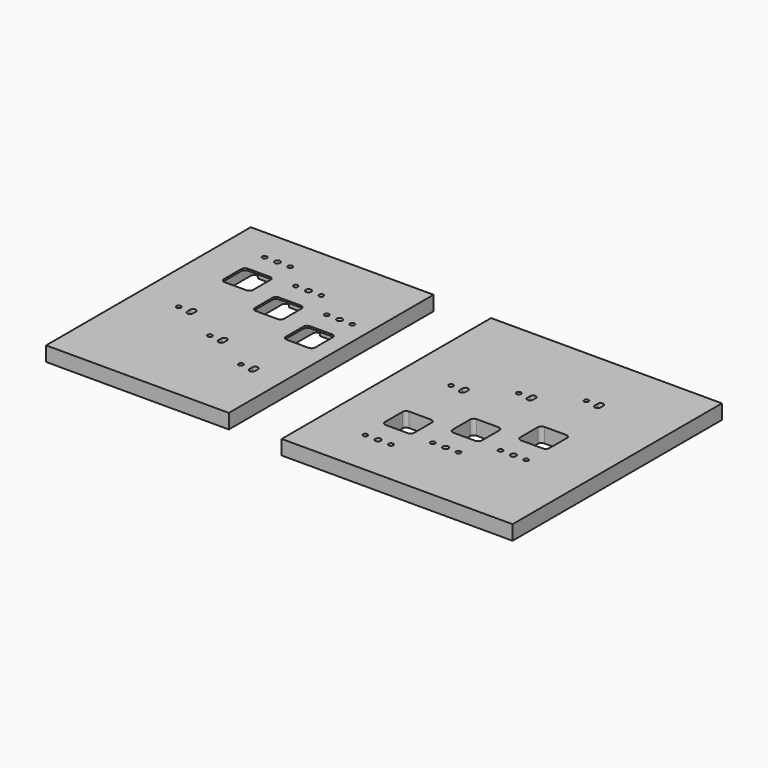
from build123d import *

# Parameters (mm, degrees)
F0_W      = 100
F0_H      = 140
F1_DEPTH  = 8
F2_R      = 1.25
F2_R_2    = 1.525
F3_DEPTH  = 8
F6_DEPTH  = 5
F8_DEPTH  = 7
F10_DEPTH = 8
F11_W     = 126.306630671
F11_H     = 143.1980729103
F11_R     = 1.25
F11_R_2   = 1.525
F12_DEPTH = 8


with BuildPart() as f1:
    # F0 (on Top) → F1 (new body)
    with BuildSketch(Plane.XY):
        Rectangle(F0_W, F0_H)
    extrude(amount=F1_DEPTH)

    # F2 (on face) → F3 (cut, through all)
    with BuildSketch(Plane(origin=(0, 0, 0), x_dir=(1, 0, 0), z_dir=(0, 0, -1))):
        with Locations((-28, -52)):
            Circle(F2_R)
        with Locations((-14, -52)):
            Circle(F2_R)
        with Locations((-28, 6.72)):
            Circle(F2_R)
        with Locations((-1, -39.5)):
            Circle(F2_R)
        with Locations((13, -39.5)):
            Circle(F2_R)
        with Locations((-1, 19.22)):
            Circle(F2_R)
        with Locations((26, 31.72)):
            Circle(F2_R)
        with Locations((26, -27)):
            Circle(F2_R)
        with Locations((40, -27)):
            Circle(F2_R)
        with BuildLine():
            ThreePointArc((-22.53, 5.72), (-21, 4.19), (-19.47, 5.72))
            Line((-19.47, 5.72), (-19.47, 7.72))
            ThreePointArc((-19.47, 7.72), (-21, 9.25), (-22.53, 7.72))
            Line((-22.53, 7.72), (-22.53, 5.72))
        make_face()
        with BuildLine():
            ThreePointArc((4.47, 18.22), (6, 16.69), (7.53, 18.22))
            Line((7.53, 18.22), (7.53, 20.22))
            ThreePointArc((7.53, 20.22), (6, 21.75), (4.47, 20.22))
            Line((4.47, 20.22), (4.47, 18.22))
        make_face()
        with BuildLine():
            ThreePointArc((31.47, 30.72), (33, 29.19), (34.53, 30.72))
            Line((34.53, 30.72), (34.53, 32.72))
            ThreePointArc((34.53, 32.72), (33, 34.25), (31.47, 32.72))
            Line((31.47, 32.72), (31.47, 30.72))
        make_face()
        with Locations((33, -27)):
            Circle(F2_R_2)
        with Locations((6, -39.5)):
            Circle(F2_R_2)
        with Locations((-21, -52)):
            Circle(F2_R_2)
    extrude(amount=-F3_DEPTH, mode=Mode.SUBTRACT)

    # F5 (on face) → F6 (cut)
    with BuildSketch(Plane(origin=(0, 0, 0), x_dir=(1, 0, 0), z_dir=(0, 0, -1))):
        with BuildLine():
            Line((26.5, -21.8), (39.5, -21.8))
            ThreePointArc((39.5, -21.8), (41.5, -23.8), (43.5, -21.8))
            Line((43.5, -21.8), (43.5, 1.7))
            ThreePointArc((43.5, 1.7), (42.9142135624, 3.1142135624), (41.5, 3.7))
            Line((41.5, 3.7), (24.5, 3.7))
            ThreePointArc((24.5, 3.7), (23.0857864376, 3.1142135624), (22.5, 1.7))
            Line((22.5, 1.7), (22.5, -21.8))
            ThreePointArc((22.5, -21.8), (24.5, -23.8), (26.5, -21.8))
        make_face()
        with BuildLine():
            ThreePointArc((16.5, -10.8), (15.9142135624, -9.3857864376), (14.5, -8.8))
            Line((14.5, -8.8), (-2.5, -8.8))
            ThreePointArc((-2.5, -8.8), (-3.9142135624, -9.3857864376), (-4.5, -10.8))
            Line((-4.5, -10.8), (-4.5, -34.3))
            ThreePointArc((-4.5, -34.3), (-2.5, -36.3), (-0.5, -34.3))
            Line((-0.5, -34.3), (12.5, -34.3))
            ThreePointArc((12.5, -34.3), (14.5, -36.3), (16.5, -34.3))
            Line((16.5, -34.3), (16.5, -10.8))
        make_face()
        with BuildLine():
            ThreePointArc((-10.5, -23.3), (-11.0857864376, -21.8857864376), (-12.5, -21.3))
            Line((-12.5, -21.3), (-29.5, -21.3))
            ThreePointArc((-29.5, -21.3), (-30.9142135624, -21.8857864376), (-31.5, -23.3))
            Line((-31.5, -23.3), (-31.5, -46.8))
            ThreePointArc((-31.5, -46.8), (-29.5, -48.8), (-27.5, -46.8))
            Line((-27.5, -46.8), (-14.5, -46.8))
            ThreePointArc((-14.5, -46.8), (-12.5, -48.8), (-10.5, -46.8))
            Line((-10.5, -46.8), (-10.5, -23.3))
        make_face()
    extrude(amount=-F6_DEPTH, mode=Mode.SUBTRACT)

    # F7 (on face) → F8 (cut)
    with BuildSketch(Plane(origin=(0, 0, 0), x_dir=(1, 0, 0), z_dir=(0, 0, -1))):
        with BuildLine():
            Line((24.5, -17.3), (41.5, -17.3))
            ThreePointArc((41.5, -17.3), (42.9142135624, -16.7142135624), (43.5, -15.3))
            Line((43.5, -15.3), (43.5, 1.7))
            ThreePointArc((43.5, 1.7), (42.9142135624, 3.1142135624), (41.5, 3.7))
            Line((41.5, 3.7), (24.5, 3.7))
            ThreePointArc((24.5, 3.7), (23.0857864376, 3.1142135624), (22.5, 1.7))
            Line((22.5, 1.7), (22.5, -15.3))
            ThreePointArc((22.5, -15.3), (23.0857864376, -16.7142135624), (24.5, -17.3))
        make_face()
        with BuildLine():
            ThreePointArc((14.5, -29.8), (15.9142135624, -29.2142135624), (16.5, -27.8))
            Line((16.5, -27.8), (16.5, -10.8))
            ThreePointArc((16.5, -10.8), (15.9142135624, -9.3857864376), (14.5, -8.8))
            Line((14.5, -8.8), (-2.5, -8.8))
            ThreePointArc((-2.5, -8.8), (-3.9142135624, -9.3857864376), (-4.5, -10.8))
            Line((-4.5, -10.8), (-4.5, -27.8))
            ThreePointArc((-4.5, -27.8), (-3.9142135624, -29.2142135624), (-2.5, -29.8))
            Line((-2.5, -29.8), (14.5, -29.8))
        make_face()
        with BuildLine():
            ThreePointArc((-12.5, -42.3), (-11.0857864376, -41.7142135624), (-10.5, -40.3))
            Line((-10.5, -40.3), (-10.5, -23.3))
            ThreePointArc((-10.5, -23.3), (-11.0857864376, -21.8857864376), (-12.5, -21.3))
            Line((-12.5, -21.3), (-29.5, -21.3))
            ThreePointArc((-29.5, -21.3), (-30.9142135624, -21.8857864376), (-31.5, -23.3))
            Line((-31.5, -23.3), (-31.5, -40.3))
            ThreePointArc((-31.5, -40.3), (-30.9142135624, -41.7142135624), (-29.5, -42.3))
            Line((-29.5, -42.3), (-12.5, -42.3))
        make_face()
    extrude(amount=-F8_DEPTH, mode=Mode.SUBTRACT)

    # F9 (on face) → F10 (cut, through all)
    with BuildSketch(Plane(origin=(0, 0, 0), x_dir=(1, 0, 0), z_dir=(0, 0, -1))):
        with BuildLine():
            Line((27, -14.3), (39, -14.3))
            ThreePointArc((39, -14.3), (40.4142135624, -13.7142135624), (41, -12.3))
            Line((41, -12.3), (41, -0.3))
            ThreePointArc((41, -0.3), (40.4142135624, 1.1142135624), (39, 1.7))
            Line((39, 1.7), (27, 1.7))
            ThreePointArc((27, 1.7), (25.5857864376, 1.1142135624), (25, -0.3))
            Line((25, -0.3), (25, -12.3))
            ThreePointArc((25, -12.3), (25.5857864376, -13.7142135624), (27, -14.3))
        make_face()
        with BuildLine():
            Line((-2, -12.8), (-2, -24.8))
            ThreePointArc((-2, -24.8), (-1.4142135624, -26.2142135624), (0, -26.8))
            Line((0, -26.8), (12, -26.8))
            ThreePointArc((12, -26.8), (13.4142135624, -26.2142135624), (14, -24.8))
            Line((14, -24.8), (14, -12.8))
            ThreePointArc((14, -12.8), (13.4142135624, -11.3857864376), (12, -10.8))
            Line((12, -10.8), (0, -10.8))
            ThreePointArc((0, -10.8), (-1.4142135624, -11.3857864376), (-2, -12.8))
        make_face()
        with BuildLine():
            Line((-29, -25.3), (-29, -37.3))
            ThreePointArc((-29, -37.3), (-28.4142135624, -38.7142135624), (-27, -39.3))
            Line((-27, -39.3), (-15, -39.3))
            ThreePointArc((-15, -39.3), (-13.5857864376, -38.7142135624), (-13, -37.3))
            Line((-13, -37.3), (-13, -25.3))
            ThreePointArc((-13, -25.3), (-13.5857864376, -23.8857864376), (-15, -23.3))
            Line((-15, -23.3), (-27, -23.3))
            ThreePointArc((-27, -23.3), (-28.4142135624, -23.8857864376), (-29, -25.3))
        make_face()
    extrude(amount=-F10_DEPTH, mode=Mode.SUBTRACT)


with BuildPart() as f12:
    # F11 (on Top) → F12 (new body)
    with BuildSketch(Plane.XY):
        with Locations((145.8292268217, -3.1017139554)):
            Rectangle(F11_W, F11_H)
        with Locations((108.3400235176, -49.5994985104)):
            Circle(F11_R, mode=Mode.SUBTRACT)
        with Locations((115.3400235176, -49.5994985104)):
            Circle(F11_R_2, mode=Mode.SUBTRACT)
        with Locations((122.3400235176, -49.5994985104)):
            Circle(F11_R, mode=Mode.SUBTRACT)
        with BuildLine():
            ThreePointArc((123.3400235176, -34.8994985104), (122.75423708, -36.3137120727), (121.3400235176, -36.8994985104))
            Line((121.3400235176, -36.8994985104), (109.3400235176, -36.8994985104))
            ThreePointArc((109.3400235176, -36.8994985104), (107.9258099552, -36.3137120727), (107.3400235176, -34.8994985104))
            Line((107.3400235176, -34.8994985104), (107.3400235176, -22.8994985104))
            ThreePointArc((107.3400235176, -22.8994985104), (107.9258099552, -21.485284948), (109.3400235176, -20.8994985104))
            Line((109.3400235176, -20.8994985104), (121.3400235176, -20.8994985104))
            ThreePointArc((121.3400235176, -20.8994985104), (122.75423708, -21.485284948), (123.3400235176, -22.8994985104))
            Line((123.3400235176, -22.8994985104), (123.3400235176, -34.8994985104))
        make_face(mode=Mode.SUBTRACT)
        with Locations((135.3400235176, -37.0994985104)):
            Circle(F11_R, mode=Mode.SUBTRACT)
        with Locations((142.3400235176, -37.0994985104)):
            Circle(F11_R_2, mode=Mode.SUBTRACT)
        with BuildLine():
            Line((150.3400235176, -10.3994985104), (150.3400235176, -22.3994985104))
            ThreePointArc((150.3400235176, -22.3994985104), (149.75423708, -23.8137120727), (148.3400235176, -24.3994985104))
            Line((148.3400235176, -24.3994985104), (136.3400235176, -24.3994985104))
            ThreePointArc((136.3400235176, -24.3994985104), (134.9258099552, -23.8137120727), (134.3400235176, -22.3994985104))
            Line((134.3400235176, -22.3994985104), (134.3400235176, -10.3994985104))
            ThreePointArc((134.3400235176, -10.3994985104), (134.9258099552, -8.985284948), (136.3400235176, -8.3994985104))
            Line((136.3400235176, -8.3994985104), (148.3400235176, -8.3994985104))
            ThreePointArc((148.3400235176, -8.3994985104), (149.75423708, -8.985284948), (150.3400235176, -10.3994985104))
        make_face(mode=Mode.SUBTRACT)
        with Locations((149.3400235176, -37.0994985104)):
            Circle(F11_R, mode=Mode.SUBTRACT)
        with Locations((162.3400235176, -24.5994985104)):
            Circle(F11_R, mode=Mode.SUBTRACT)
        with Locations((169.3400235176, -24.5994985104)):
            Circle(F11_R_2, mode=Mode.SUBTRACT)
        with Locations((176.3400235176, -24.5994985104)):
            Circle(F11_R, mode=Mode.SUBTRACT)
        with BuildLine():
            ThreePointArc((163.3400235176, -11.8994985104), (161.9258099552, -11.3137120727), (161.3400235176, -9.8994985104))
            Line((161.3400235176, -9.8994985104), (161.3400235176, 2.1005014896))
            ThreePointArc((161.3400235176, 2.1005014896), (161.9258099552, 3.514715052), (163.3400235176, 4.1005014896))
            Line((163.3400235176, 4.1005014896), (175.3400235176, 4.1005014896))
            ThreePointArc((175.3400235176, 4.1005014896), (176.75423708, 3.514715052), (177.3400235176, 2.1005014896))
            Line((177.3400235176, 2.1005014896), (177.3400235176, -9.8994985104))
            ThreePointArc((177.3400235176, -9.8994985104), (176.75423708, -11.3137120727), (175.3400235176, -11.8994985104))
            Line((175.3400235176, -11.8994985104), (163.3400235176, -11.8994985104))
        make_face(mode=Mode.SUBTRACT)
        with Locations((108.3400235176, 9.1205014896)):
            Circle(F11_R, mode=Mode.SUBTRACT)
        with BuildLine():
            Line((116.8700235176, 10.1205014896), (116.8700235176, 8.1205014896))
            ThreePointArc((116.8700235176, 8.1205014896), (115.3400235176, 6.5905014896), (113.8100235176, 8.1205014896))
            Line((113.8100235176, 8.1205014896), (113.8100235176, 10.1205014896))
            ThreePointArc((113.8100235176, 10.1205014896), (115.3400235176, 11.6505014896), (116.8700235176, 10.1205014896))
        make_face(mode=Mode.SUBTRACT)
        with Locations((135.3400235176, 21.6205014896)):
            Circle(F11_R, mode=Mode.SUBTRACT)
        with BuildLine():
            Line((143.8700235176, 22.6205014896), (143.8700235176, 20.6205014896))
            ThreePointArc((143.8700235176, 20.6205014896), (142.3400235176, 19.0905014896), (140.8100235176, 20.6205014896))
            Line((140.8100235176, 20.6205014896), (140.8100235176, 22.6205014896))
            ThreePointArc((140.8100235176, 22.6205014896), (142.3400235176, 24.1505014896), (143.8700235176, 22.6205014896))
        make_face(mode=Mode.SUBTRACT)
        with Locations((162.3400235176, 34.1205014896)):
            Circle(F11_R, mode=Mode.SUBTRACT)
        with BuildLine():
            Line((170.8700235176, 35.1205014896), (170.8700235176, 33.1205014896))
            ThreePointArc((170.8700235176, 33.1205014896), (169.3400235176, 31.5905014896), (167.8100235176, 33.1205014896))
            Line((167.8100235176, 33.1205014896), (167.8100235176, 35.1205014896))
            ThreePointArc((167.8100235176, 35.1205014896), (169.3400235176, 36.6505014896), (170.8700235176, 35.1205014896))
        make_face(mode=Mode.SUBTRACT)
    extrude(amount=F12_DEPTH)


solid = Compound([f1.part, f12.part])
